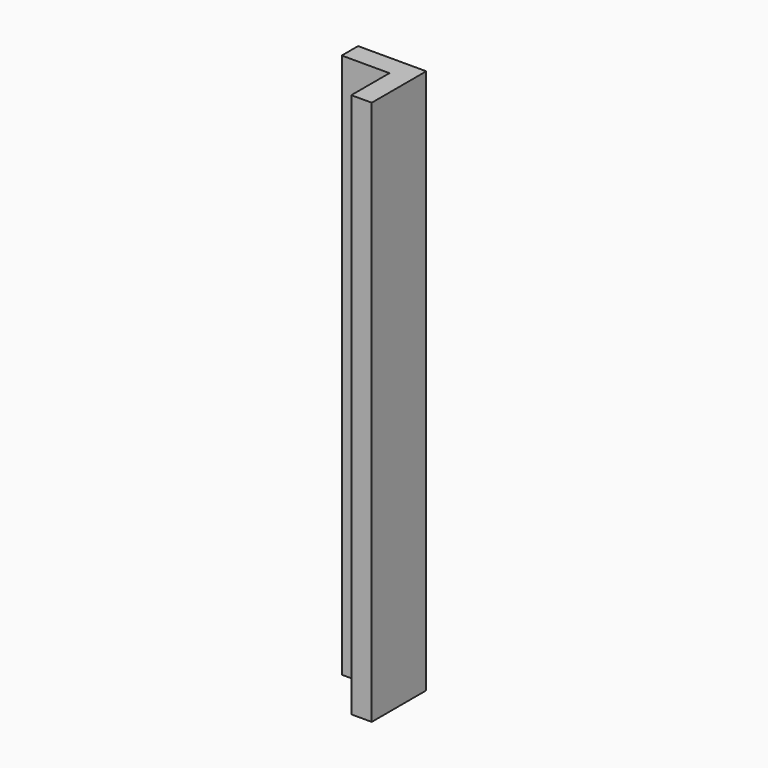
from build123d import *

# Parameters (mm, degrees)
F0_W     = 63.5
F0_H     = 508
F1_DEPTH = 19.05
F2_W     = 44.45
F2_H     = 508
F3_DEPTH = 19.05


with BuildPart() as f1:
    # F0 (on Front) → F1 (new body)
    with BuildSketch(Plane.XZ):
        Rectangle(F0_W, F0_H)
    extrude(amount=F1_DEPTH)

    # F2 (on face) → F3 (join)
    with BuildSketch(Plane.YZ.offset(31.75)):
        with Locations((-41.275, 0)):
            Rectangle(F2_W, F2_H)
    extrude(amount=-F3_DEPTH)


solid = f1.part
